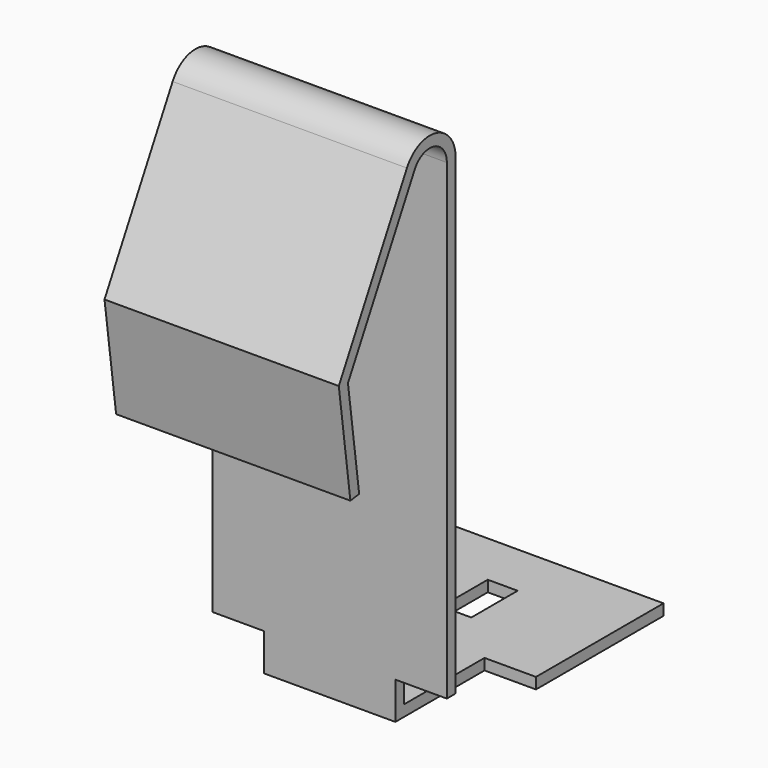
from build123d import *

# Parameters (mm, degrees)
F1_DEPTH = 6.35
F2_W     = 1.395
F2_H     = 0.71
F3_DEPTH = 0.3
F4_W     = 0.81
F4_H     = 1.57
F5_DEPTH = 0.3


with BuildPart() as f1:
    # F0 (on Right) → F1 (new body)
    with BuildSketch(Plane.YZ):
        with BuildLine():
            Line((-7.34, 0), (0, 0))
            Line((0, 0), (0, 0.3))
            Line((0, 0.3), (-7.04, 0.3))
            Line((-7.04, 0.3), (-7.04, 13.800869))
            ThreePointArc((-7.04, 13.800869), (-7.703292, 14.653092), (-8.692279, 14.219335))
            Line((-8.692279, 14.219335), (-11, 9.955639))
            Line((-11, 9.955639), (-10.607156, 7.06))
            Line((-10.607156, 7.06), (-10.309879, 7.100331))
            Line((-10.309879, 7.100331), (-10.68956, 9.898947))
            Line((-10.68956, 9.898947), (-8.428445, 14.076535))
            ThreePointArc((-8.428445, 14.076535), (-7.776946, 14.362275), (-7.34, 13.800869))
            Line((-7.34, 13.800869), (-7.34, 0))
        make_face()
    extrude(amount=F1_DEPTH)

    # F2 (on face) → F3 (cut, through all)
    with BuildSketch(Plane.XZ.offset(7.34)):
        with Locations((5.6525, 0.655)):
            Rectangle(F2_W, F2_H)
        with Locations((0.6975, 0.655)):
            Rectangle(F2_W, F2_H)
    extrude(amount=-F3_DEPTH, mode=Mode.SUBTRACT)

    # F4 (on face) → F5 (cut, through all)
    with BuildSketch(Plane.XY.offset(0.3)):
        Polygon((0, -4.32), (0, -7.34), (1.395, -7.34), (1.395, -7.04), (1.395, -4.32), align=None)
        Polygon((4.955, -4.32), (4.955, -7.04), (4.955, -7.34), (6.35, -7.34), (6.35, -4.32), align=None)
        with Locations((3.175, -2.263539)):
            Rectangle(F4_W, F4_H)
    extrude(amount=-F5_DEPTH, mode=Mode.SUBTRACT)


solid = f1.part
